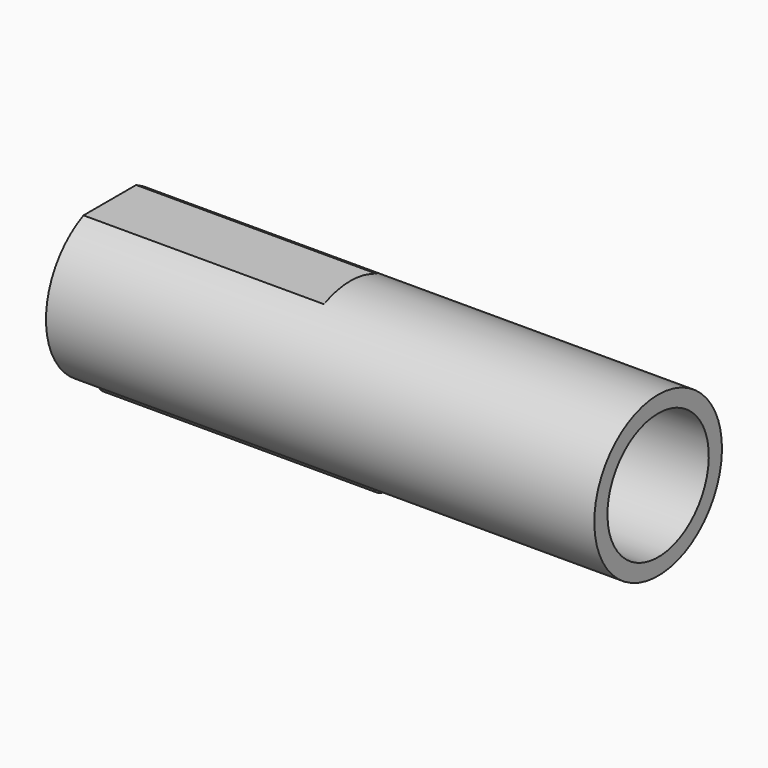
from build123d import *

# Parameters (mm, degrees)
F0_W     = 100
F0_H     = 3
F2_W     = 12
F2_H     = 5
F3_DEPTH = 43.855205
F4_R     = 2.75
F5_DEPTH = 50


with BuildPart() as f1:
    # F0 (on Front) → F1 (revolve)
    with BuildSketch(Plane.XZ):
        with Locations((50, 13.05)):
            Rectangle(F0_W, F0_H)
    revolve(axis=Axis((1.032291, 0, 0), (1, 0, 0)))

    # F2 (on Right) → F3 (cut)
    with BuildSketch(Plane.YZ):
        with Locations((0, 15.755282)):
            Rectangle(F2_W, F2_H)
    extrude(amount=F3_DEPTH, mode=Mode.SUBTRACT)

    # F4 (on Right) → F5 (join)
    with BuildSketch(Plane.YZ):
        with Locations((0, -14.55)):
            Circle(F4_R)
    extrude(amount=F5_DEPTH)


solid = f1.part
